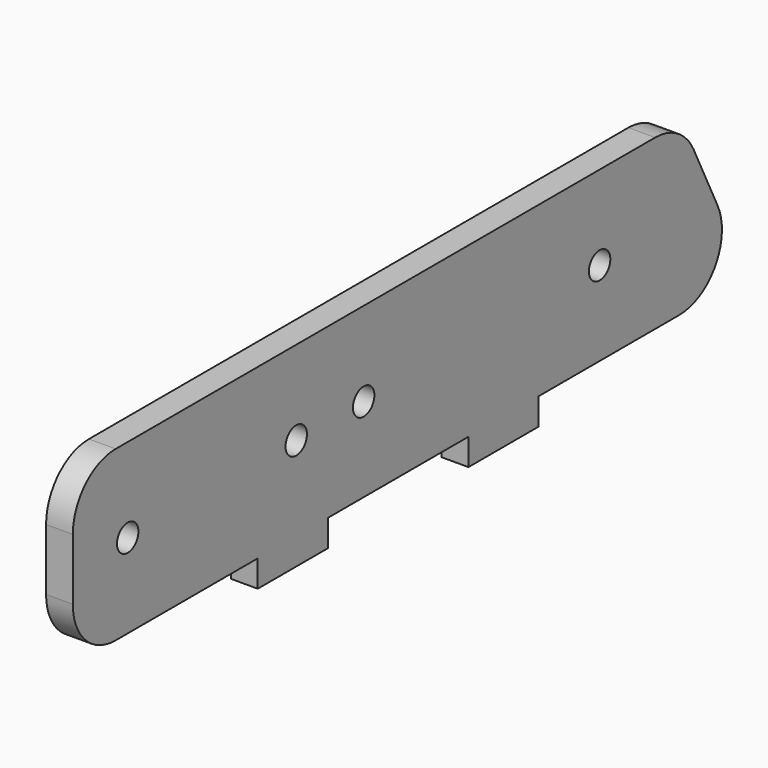
from build123d import *

# Parameters (mm, degrees)
F0_R     = 1.5875
F1_DEPTH = 3.175


with BuildPart() as f1:
    # F0 (on Right) → F1 (new body)
    with BuildSketch(Plane.YZ):
        with BuildLine():
            ThreePointArc((-38.625983, 6.35), (-36.766111, 1.859872), (-32.275983, 0))
            Line((-32.275983, 0), (-32.032519, 0))
            Line((-32.032519, 0), (-11.197744, 0))
            Line((-11.197744, 0), (-11.197744, -3.175))
            Line((-11.197744, -3.175), (-0.780357, -3.175))
            Line((-0.780357, -3.175), (-0.780357, 0))
            Line((-0.780357, 0), (20.054419, 0))
            Line((20.054419, 0), (20.054419, -3.175))
            Line((20.054419, -3.175), (30.471806, -3.175))
            Line((30.471806, -3.175), (30.471806, 0))
            Line((30.471806, 0), (51.306581, 0))
            ThreePointArc((51.306581, 0), (56.690855, 2.983682), (57.015299, 9.130835))
            Line((57.015299, 9.130835), (53.459318, 16.430835))
            ThreePointArc((53.459318, 16.430835), (51.116919, 19.034273), (47.7506, 20))
            Line((47.7506, 20), (-28.720002, 20))
            Line((-28.720002, 20), (-32.275983, 20))
            ThreePointArc((-32.275983, 20), (-36.766111, 18.140128), (-38.625983, 13.65))
            Line((-38.625983, 13.65), (-38.625983, 6.35))
        make_face()
        with Locations((-30.484701, 10)):
            Circle(F0_R, mode=Mode.SUBTRACT)
        with Locations((-5.484701, 10)):
            Circle(F0_R, mode=Mode.SUBTRACT)
        with Locations((4.515299, 10)):
            Circle(F0_R, mode=Mode.SUBTRACT)
        with Locations((39.515299, 10)):
            Circle(F0_R, mode=Mode.SUBTRACT)
    extrude(amount=F1_DEPTH)


solid = f1.part
